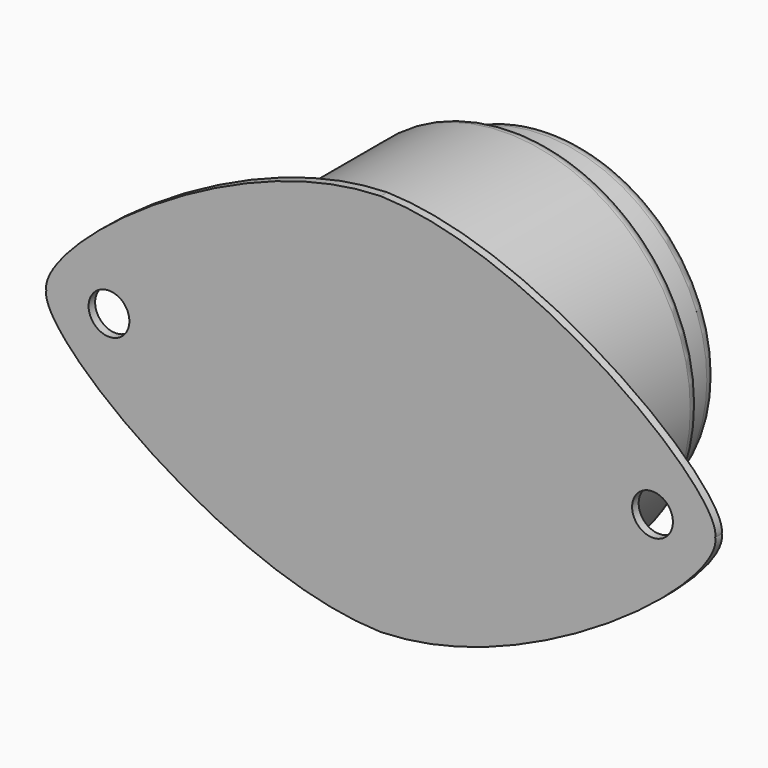
from build123d import *

# Parameters (mm, degrees)
SKETCH001_R     = 25
POCKET_DEPTH    = 5
SKETCH002_R     = 1.5
POCKET001_DEPTH = 5


with BuildPart() as part:
    # Sketch → Revolution (revolve)
    with BuildSketch(Plane.XY):
        with BuildLine():
            Line((25, 0), (25, 0.6))
            Line((25, 0.6), (13.5, 0.6))
            Line((13.5, 0.6), (13.5, 11.6))
            ThreePointArc((13.5, 11.6), (13.207107, 12.307107), (12.5, 12.6))
            Line((12.5, 12.6), (12, 12.6))
            Line((12, 15), (12, 12.6))
            ThreePointArc((12, 15), (11.707107, 15.707107), (11, 16))
            Line((7.373941, 16), (11, 16))
            ThreePointArc((7.373941, 16), (4.454632, 19.632139), (0, 21))
            Line((0, 21), (0, 0))
            Line((25, 0), (0, 0))
        make_face()
    revolve(axis=Axis((0, 0, 0), (0, 1, 0)))

    # Sketch001 (on Face4 of Revolution) → Pocket (cut)
    with BuildSketch(Plane(origin=(0, 0.6, 0), x_dir=(-1, 0, 0), z_dir=(0, 1, 0))):
        Circle(SKETCH001_R)
        with BuildLine():
            add(Edge.make_bspline(
                [(0, 14.12361), (-10.284462, 13.84229), (-25.589355, 5.02168), (-24.612936, 0)],
                knots=[0, 0, 0, 0, 1, 1, 1, 1], degree=3, weights=[1, 1, 0.947956, 2.538083]))
            add(Edge.make_bspline(
                [(0, -14.12361), (-10.284462, -13.84229), (-25.589355, -5.02168), (-24.612936, 0)],
                knots=[0, 0, 0, 0, 1, 1, 1, 1], degree=3, weights=[1, 1, 0.947956, 2.538083]))
            add(Edge.make_bspline(
                [(0, -14.12361), (10.284462, -13.84229), (25.589355, -5.02168), (24.612936, 0)],
                knots=[0, 0, 0, 0, 1, 1, 1, 1], degree=3, weights=[1, 1, 0.947956, 2.538083]))
            add(Edge.make_bspline(
                [(0, 14.12361), (10.284462, 13.84229), (25.589355, 5.02168), (24.612936, 0)],
                knots=[0, 0, 0, 0, 1, 1, 1, 1], degree=3, weights=[1, 1, 0.947956, 2.538083]))
        make_face(mode=Mode.SUBTRACT)
    extrude(amount=-POCKET_DEPTH, mode=Mode.SUBTRACT)

    # Sketch002 (on Face8 of Pocket) → Pocket001 (cut)
    with BuildSketch(Plane(origin=(0, 0.6, 0), x_dir=(-1, 0, 0), z_dir=(0, 1, 0))):
        with Locations((-20, 0)):
            Circle(SKETCH002_R)
        with Locations((20, 0)):
            Circle(SKETCH002_R)
    extrude(amount=-POCKET001_DEPTH, mode=Mode.SUBTRACT)


solid = part.part
